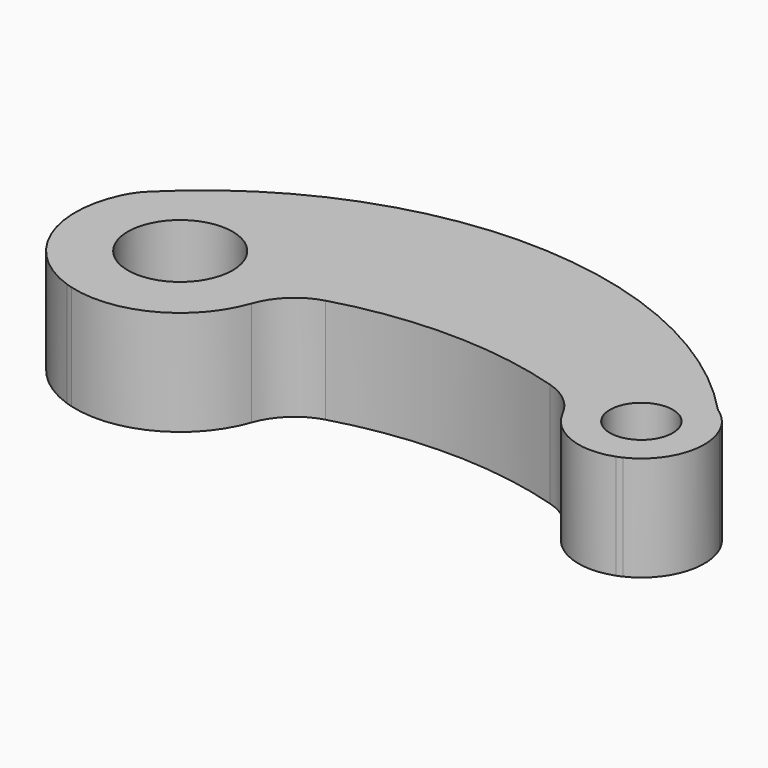
from build123d import *

# Parameters (mm, degrees)
F0_R     = 12.5
F0_R_2   = 7.5
F1_DEPTH = 25


with BuildPart() as f1:
    # F0 (on Top) → F1 (new body)
    with BuildSketch(Plane.XY):
        with BuildLine():
            ThreePointArc((-79.5439328464, 105.0329916801), (-81.1903795815, 103.1025246973), (-82.4879081903, 100.9221785934))
            ThreePointArc((-82.4879081903, 100.9221785934), (-83.0645935002, 80.3550776743), (-68.0186809889, 66.3208793407))
            ThreePointArc((-68.0186809889, 66.3208793407), (-67.296498316, 67.0535704822), (-66.5664236158, 67.7783980852))
            ThreePointArc((-66.5664236158, 67.7783980852), (-66.6515105536, 66.8502006193), (-66.7226044544, 65.9208266473))
            ThreePointArc((-66.7226044544, 65.9208266473), (-48.415623534, 67.8459434438), (-36.3892582797, 81.7821611469))
            ThreePointArc((-36.3892582797, 81.7821611469), (-32.5421815269, 87.7377169865), (-26.3895907314, 91.2611061791))
            ThreePointArc((-26.3895907314, 91.2611061791), (0.5889591855, 94.9981743355), (27.5190997352, 90.926889036))
            ThreePointArc((27.5190997352, 90.926889036), (32.8402812409, 88.0400857367), (36.5869893622, 83.2850059099))
            ThreePointArc((36.5869893622, 83.2850059099), (44.4886785219, 76.049181545), (55.2022156282, 75.9309931922))
            ThreePointArc((55.2022156282, 75.9309931922), (54.9958309784, 76.7755396556), (54.7775992327, 77.6171026405))
            ThreePointArc((54.7775992327, 77.6171026405), (55.5970680513, 77.0322401602), (56.4102927908, 76.4387262274))
            ThreePointArc((56.4102927908, 76.4387262274), (64.1063809456, 84.8999983709), (63.6005239797, 96.3265905096))
            ThreePointArc((63.6005239797, 96.3265905096), (61.3548283708, 99.0601930849), (59.0101731037, 101.7094049462))
            ThreePointArc((59.0101731037, 101.7094049462), (58.1789475446, 102.4000301137), (57.3401107186, 103.0813903939))
            ThreePointArc((57.3401107186, 103.0813903939), (57.8001000902, 102.8124329689), (58.2502464871, 102.5273074881))
            ThreePointArc((58.2502464871, 102.5273074881), (-10.1185209211, 132.8339833721), (-79.5439328464, 105.0329916801))
        make_face()
        with Locations((-60, 90)):
            Circle(F0_R, mode=Mode.SUBTRACT)
        with Locations((50, 90)):
            Circle(F0_R_2, mode=Mode.SUBTRACT)
        with BuildLine():
            ThreePointArc((-66.5664236158, 67.7783980852), (-67.296498316, 67.0535704822), (-68.0186809889, 66.3208793407))
            ThreePointArc((-68.0186809889, 66.3208793407), (-67.3733564047, 66.1120613001), (-66.7226044544, 65.9208266473))
            ThreePointArc((-66.7226044544, 65.9208266473), (-66.6515105536, 66.8502006193), (-66.5664236158, 67.7783980852))
        make_face()
        with BuildLine():
            ThreePointArc((59.0101731037, 101.7094049462), (58.6313959204, 102.1194582653), (58.2502464871, 102.5273074881))
            ThreePointArc((58.2502464871, 102.5273074881), (57.8001000902, 102.8124329689), (57.3401107186, 103.0813903939))
            ThreePointArc((57.3401107186, 103.0813903939), (58.1789475446, 102.4000301137), (59.0101731037, 101.7094049462))
        make_face()
        with BuildLine():
            ThreePointArc((61.7653971487, 99.3045918735), (60.1367140397, 101.056537816), (58.2502464871, 102.5273074881))
            ThreePointArc((58.2502464871, 102.5273074881), (58.6313959204, 102.1194582653), (59.0101731037, 101.7094049462))
            ThreePointArc((59.0101731037, 101.7094049462), (60.3990725447, 100.5199305447), (61.7653971487, 99.3045918736))
        make_face()
        with BuildLine():
            ThreePointArc((63.6005239797, 96.3265905096), (62.7700670204, 97.8692685998), (61.7653971487, 99.3045918735))
            ThreePointArc((61.7653971487, 99.3045918736), (60.3990725447, 100.5199305447), (59.0101731037, 101.7094049462))
            ThreePointArc((59.0101731037, 101.7094049462), (61.3548283708, 99.0601930849), (63.6005239797, 96.3265905096))
        make_face()
        with BuildLine():
            ThreePointArc((55.2022156282, 75.9309931922), (55.8118014552, 76.1716608428), (56.4102927908, 76.4387262274))
            ThreePointArc((56.4102927908, 76.4387262274), (55.5970680513, 77.0322401602), (54.7775992327, 77.6171026405))
            ThreePointArc((54.7775992327, 77.6171026405), (54.9958309784, 76.7755396556), (55.2022156282, 75.9309931922))
        make_face()
    extrude(amount=F1_DEPTH)


solid = f1.part
